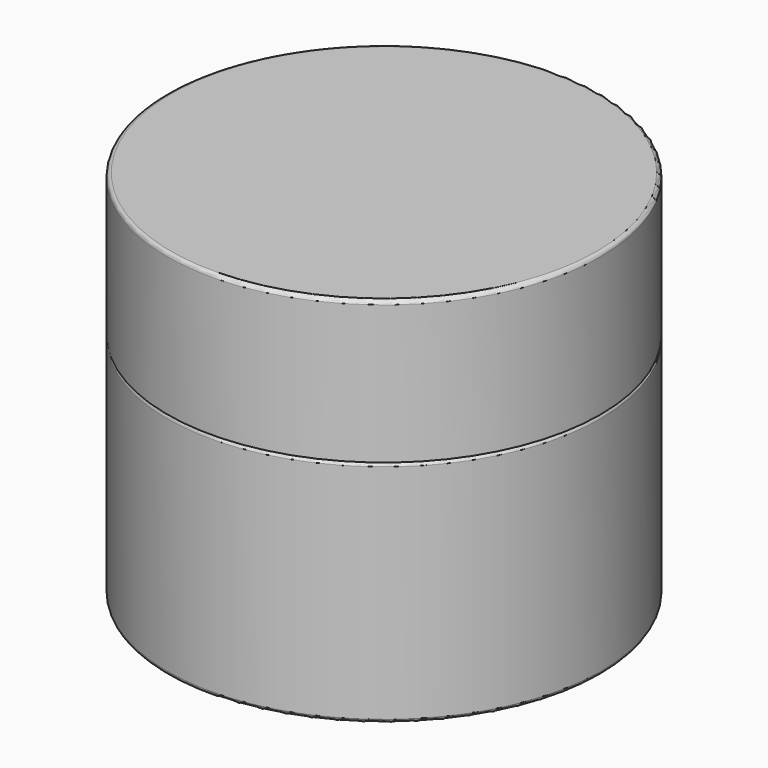
from build123d import *

# Parameters (mm, degrees)
F0_R     = 29.567188
F1_DEPTH = 31.353125
F2_R     = 0.508
F3_R     = 29.567188
F4_DEPTH = 19.446875
F5_R     = 0.508


with BuildPart() as f1:
    # F0 (on Top) → F1 (new body)
    with BuildSketch(Plane.XY):
        Circle(F0_R)
    extrude(amount=F1_DEPTH)

    # F2
    f2_edges = [f1.edges().sort_by_distance(p)[0] for p in [
        (-29.567188, 0, 0),
        (-29.567188, 0, 31.353125),
    ]]
    fillet(f2_edges, radius=F2_R)

    # F3 (on face) → F4 (join)
    with BuildSketch(Plane.XY.offset(31.353125)):
        Circle(F3_R)
    extrude(amount=F4_DEPTH)

    # F5
    f5_edges = [f1.edges().sort_by_distance(p)[0] for p in [
        (-29.567188, 0, 50.8),
    ]]
    fillet(f5_edges, radius=F5_R)


solid = f1.part
